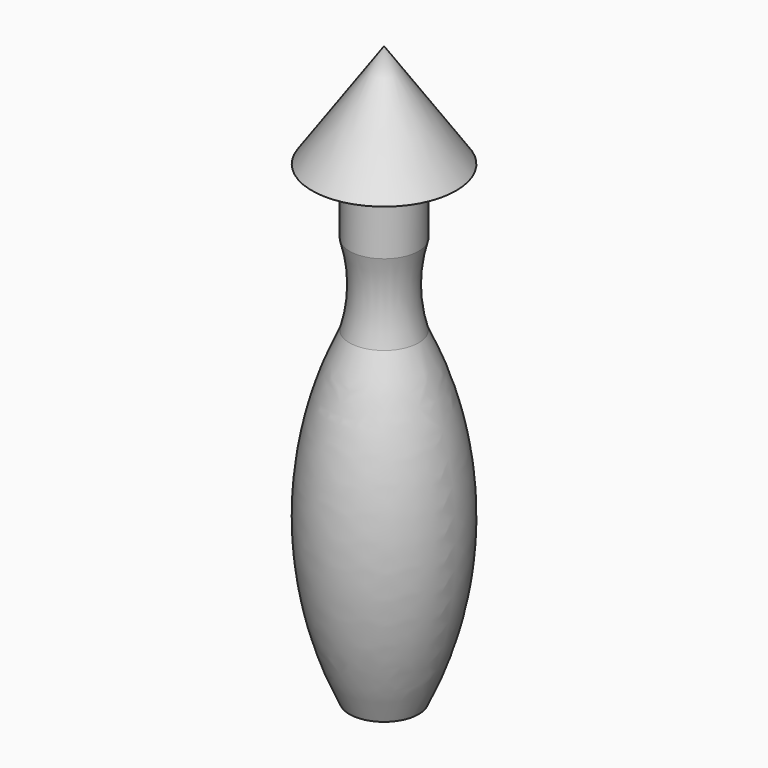
from build123d import *


with BuildPart() as f1:
    # F0 (on Front) → F1 (revolve)
    with BuildSketch(Plane.XZ):
        with BuildLine():
            Line((12.5, -18), (0, 0))
            Line((0, 0), (0, -100))
            Line((0, -100), (6, -100))
            ThreePointArc((6, -100), (12.5, -71.667157), (6, -43.334314))
            ThreePointArc((6, -43.334314), (5, -36.334314), (6, -29.334314))
            Line((6, -29.334314), (6, -18))
            Line((6, -18), (12.5, -18))
        make_face()
    revolve(axis=Axis((0, 0, -50), (0, 0, 1)))


solid = f1.part
